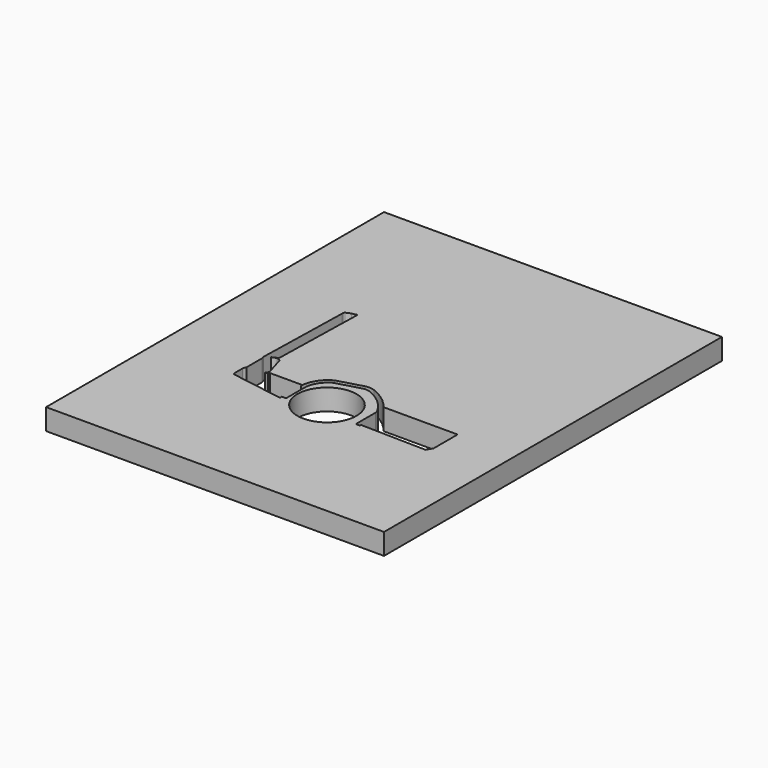
from build123d import *

# Parameters (mm, degrees)
F0_W     = 80
F0_H     = 100
F0_R     = 7
F1_DEPTH = 5


with BuildPart() as f1:
    # F0 (on Top) → F1 (new body)
    with BuildSketch(Plane.XY):
        Rectangle(F0_W, F0_H)
        with Locations((0, -16.881289)):
            Circle(F0_R, mode=Mode.SUBTRACT)
        with BuildLine():
            Line((-7.573214, -14.20428), (-7.573214, -19.523358))
            Line((-7.573214, -19.523358), (-8.573214, -19.523358))
            Line((-8.573214, -19.523358), (-8.573214, -20.023358))
            Line((-8.573214, -20.023358), (-8.843749, -20.023358))
            ThreePointArc((-8.843749, -20.023358), (-8.900117, -20.021085), (-8.956119, -20.01428))
            Line((-8.956119, -20.01428), (-20.895163, -18.072539))
            ThreePointArc((-20.895163, -18.072539), (-21.195774, -17.902958), (-21.314899, -17.579023))
            Line((-21.314899, -17.579023), (-21.314899, -17.160009))
            Line((-21.314899, -17.160009), (-21.314899, -15.299222))
            ThreePointArc((-21.314899, -15.299222), (-21.24047, -14.857391), (-21.0254, -14.464328))
            Line((-21.0254, -14.464328), (-21.0254, -14.01055))
            Line((-21.0254, -14.01055), (-21.0254, -12.913586))
            Line((-21.0254, -12.913586), (-21.0254, -9.813586))
            Line((-21.0254, -9.813586), (-21.0254, -9.767418))
            Line((-21.0254, -9.767418), (-21.197006, -9.2368))
            Line((-21.197006, -9.2368), (-20.653205, 13.45957))
            Line((-20.653205, 13.45957), (-20.653205, 13.747156))
            ThreePointArc((-20.653205, 13.747156), (-20.61125, 13.910455), (-20.495776, 14.033308))
            ThreePointArc((-20.495776, 14.033308), (-19.935874, 14.323579), (-19.334331, 14.513035))
            Line((-19.334331, 14.513035), (-18.223464, 14.782686))
            ThreePointArc((-18.223464, 14.782686), (-18.134694, 14.76198), (-18.098606, 14.678275))
            Line((-18.098606, 14.678275), (-18.638507, -7.855344))
            ThreePointArc((-18.638507, -7.855344), (-18.764323, -7.869872), (-18.888049, -7.896943))
            ThreePointArc((-18.888049, -7.896943), (-19.459477, -8.105502), (-19.987784, -8.407029))
            ThreePointArc((-19.987784, -8.407029), (-19.458243, -8.167158), (-18.888049, -8.053886))
            ThreePointArc((-18.888049, -8.053886), (-18.201931, -8.25824), (-17.834234, -8.872502))
            Line((-17.834234, -8.872502), (-16.653947, -12.861871))
            ThreePointArc((-16.653947, -12.861871), (-16.664462, -13.422165), (-16.995338, -13.874449))
            ThreePointArc((-16.995338, -13.874449), (-17.045524, -13.901224), (-17.101217, -13.912787))
            Line((-17.101217, -13.912787), (-16.810631, -13.894739))
            Line((-16.810631, -13.894739), (-16.340575, -13.894739))
            ThreePointArc((-16.340575, -13.894739), (-16.237071, -13.701517), (-16.164339, -13.494739))
            Line((-16.164339, -13.494739), (-15.217034, -13.494739))
            Line((-15.217034, -13.494739), (-14.968154, -13.494739))
            Line((-14.968154, -13.494739), (-8.566029, -13.494739))
            Line((-8.566029, -13.494739), (-8.566029, -13.894739))
            ThreePointArc((-8.566029, -13.894739), (-7.549092, -10.652508), (-5.067064, -8.331785))
            Line((-5.067064, -8.331785), (0.704507, -6.687392))
            ThreePointArc((0.704507, -6.687392), (1.902164, -6.547103), (3.082686, -6.792931))
            ThreePointArc((3.082686, -6.792931), (6.192475, -8.520067), (8.700256, -11.042926))
            Line((8.700256, -11.042926), (26.258714, -11.042926))
            Line((26.258714, -11.042926), (26.258714, -14.213515))
            Line((26.258714, -14.213515), (26.258714, -18.120132))
            Line((26.258714, -18.120132), (25.466068, -19.523358))
            Line((25.466068, -19.523358), (9.943894, -19.209119))
            Line((9.943894, -19.209119), (9.943894, -19.523358))
            Line((9.943894, -19.523358), (8.943894, -19.523358))
            Line((8.943894, -19.523358), (8.943894, -13.664436))
            ThreePointArc((8.943894, -13.664436), (8.835951, -13.194662), (8.636425, -12.755881))
            ThreePointArc((8.636425, -12.755881), (6.1104, -9.735893), (2.724563, -7.726606))
            ThreePointArc((2.724563, -7.726606), (1.857829, -7.54612), (0.978515, -7.649119))
            Line((0.978515, -7.649119), (-4.684119, -9.262475))
            ThreePointArc((-4.684119, -9.262475), (-6.797948, -11.342099), (-7.573214, -14.20428))
        make_face(mode=Mode.SUBTRACT)
    extrude(amount=-F1_DEPTH)


solid = f1.part
